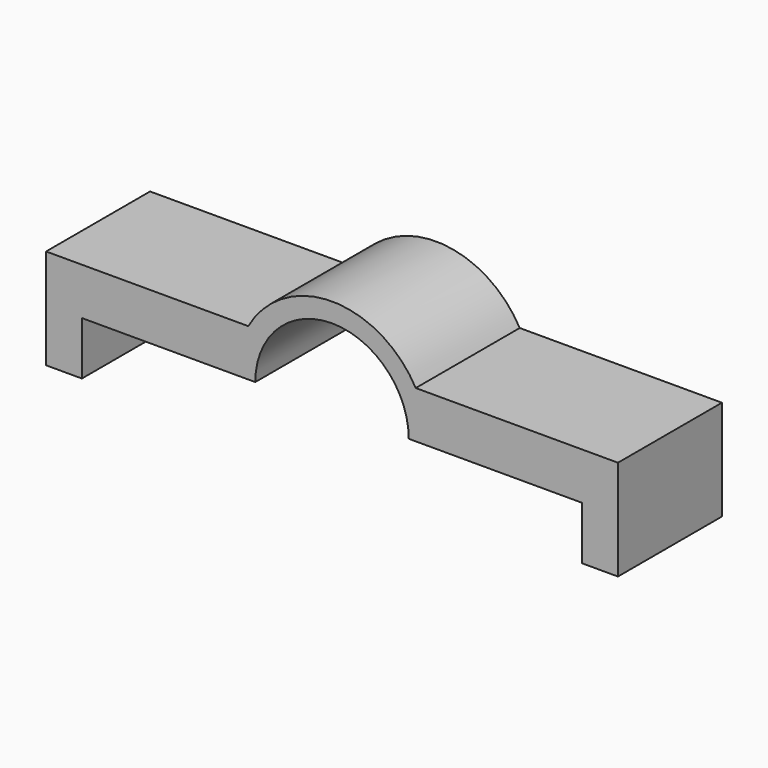
from build123d import *

# Parameters (mm, degrees)
F1_DEPTH = 12.7


with BuildPart() as f1:
    # F0 (on Front) → F1 (new body, symmetric)
    with BuildSketch(Plane.XZ):
        with BuildLine():
            Line((-48.88, 0), (-18.76496, 0))
            ThreePointArc((-18.76496, 0), (-18.155134, 4.74498), (-16.365292, 9.181554))
            Line((-16.365292, 9.181554), (-55.88, 9.181554))
            Line((-55.88, 9.181554), (-55.88, -10.405631))
            Line((-55.88, -10.405631), (-48.88, -10.405631))
            Line((-48.88, -10.405631), (-48.88, 0))
        make_face()
        with BuildLine():
            ThreePointArc((-15, 0), (0, 15), (15, 0))
            Line((15, 0), (18.76496, 0))
            ThreePointArc((18.76496, 0), (18.155134, 4.74498), (16.365292, 9.181554))
            ThreePointArc((16.365292, 9.181554), (0, 18.76496), (-16.365292, 9.181554))
            ThreePointArc((-16.365292, 9.181554), (-18.155134, 4.74498), (-18.76496, 0))
            Line((-18.76496, 0), (-15, 0))
        make_face()
        with BuildLine():
            ThreePointArc((16.365292, 9.181554), (18.155134, 4.74498), (18.76496, 0))
            Line((18.76496, 0), (48.88, 0))
            Line((48.88, 0), (48.88, -10.405631))
            Line((48.88, -10.405631), (55.88, -10.405631))
            Line((55.88, -10.405631), (55.88, 9.181554))
            Line((55.88, 9.181554), (16.365292, 9.181554))
        make_face()
    extrude(amount=F1_DEPTH, both=True)


solid = f1.part
